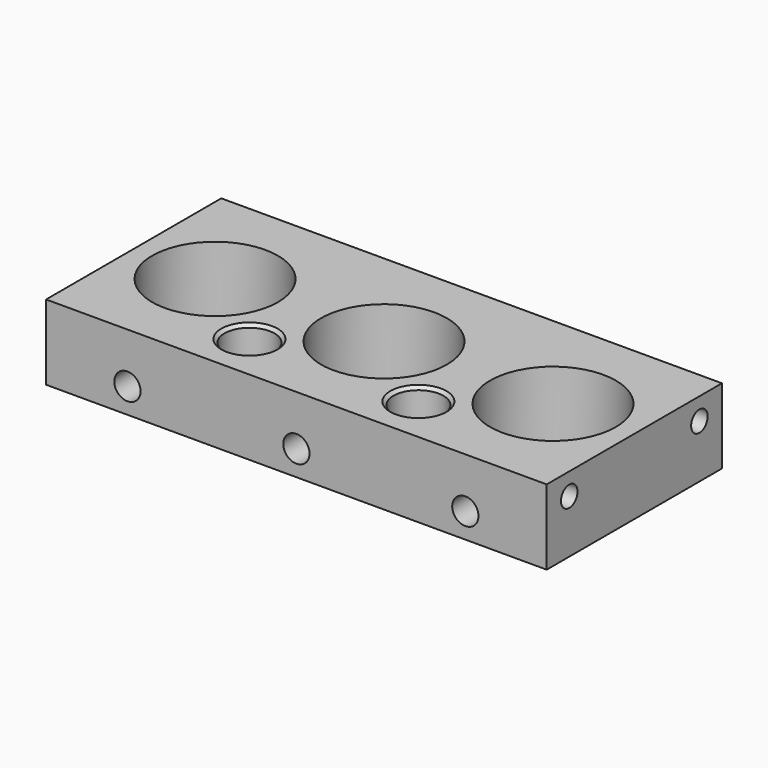
from build123d import *

# Parameters (mm, degrees)
F0_W      = 80
F0_H      = 35
F0_R      = 4
F0_R_2    = 10.05
F1_DEPTH  = 12
F2_SIZE   = 0.5
F3_R      = 2.1
F4_DEPTH  = 7.6728517519
F6_D      = 4.2
F6_DEPTH  = 15
F6_TIP    = 1.2618073
F8_D      = 3.3
F8_DEPTH  = 12
F8_TIP    = 0.9914200214
F10_D     = 3.3
F10_DEPTH = 12
F10_TIP   = 0.9914200214


with BuildPart() as f1:
    # F0 (on Top) → F1 (new body)
    with BuildSketch(Plane.XY):
        with Locations((40, 17.5)):
            Rectangle(F0_W, F0_H)
        with Locations((26.5, 7.5)):
            Circle(F0_R, mode=Mode.SUBTRACT)
        with Locations((53.5, 7.5)):
            Circle(F0_R, mode=Mode.SUBTRACT)
        with Locations((13, 17.5)):
            Circle(F0_R_2, mode=Mode.SUBTRACT)
        with Locations((40, 17.5)):
            Circle(F0_R_2, mode=Mode.SUBTRACT)
        with Locations((67, 17.5)):
            Circle(F0_R_2, mode=Mode.SUBTRACT)
    extrude(amount=F1_DEPTH)

    # F2
    f2_edges = [f1.edges().sort_by_distance(p)[0] for p in [
        (22.5, 7.5, 12),
        (49.5, 7.5, 12),
        (49.5, 7.5, 0),
        (22.5, 7.5, 0),
    ]]
    chamfer(f2_edges, length=F2_SIZE)

    # F3 (on face) → F4 (cut, through all)
    with BuildSketch(Plane.XZ):
        with Locations((40, 4)):
            Circle(F3_R)
        with Locations((67, 4)):
            Circle(F3_R)
        with Locations((13, 4)):
            Circle(F3_R)
    extrude(amount=-F4_DEPTH, mode=Mode.SUBTRACT)

    # F6
    with Locations(Plane(origin=(0, 35, 0), x_dir=(-1, 0, 0), z_dir=(0, 1, 0))):
        with Locations((-53.5, 6), (-26.5, 6)):
            Hole(F6_D / 2, depth=F6_DEPTH)
            with Locations((0, 0, -(F6_DEPTH + F6_TIP / 2))):  # 118° drill point
                Cone(0, F6_D / 2, F6_TIP, mode=Mode.SUBTRACT)

    # F8
    with Locations(Plane.YZ.offset(80)):
        with Locations((4.5, 8.5), (30.5, 8.5)):
            Hole(F8_D / 2, depth=F8_DEPTH)
            with Locations((0, 0, -(F8_DEPTH + F8_TIP / 2))):  # 118° drill point
                Cone(0, F8_D / 2, F8_TIP, mode=Mode.SUBTRACT)

    # F10
    with Locations(Plane(origin=(0, 0, 0), x_dir=(0, -1, 0), z_dir=(-1, 0, 0))):
        with Locations((-30.5, 8.5), (-4.5, 8.5)):
            Hole(F10_D / 2, depth=F10_DEPTH)
            with Locations((0, 0, -(F10_DEPTH + F10_TIP / 2))):  # 118° drill point
                Cone(0, F10_D / 2, F10_TIP, mode=Mode.SUBTRACT)


solid = f1.part
